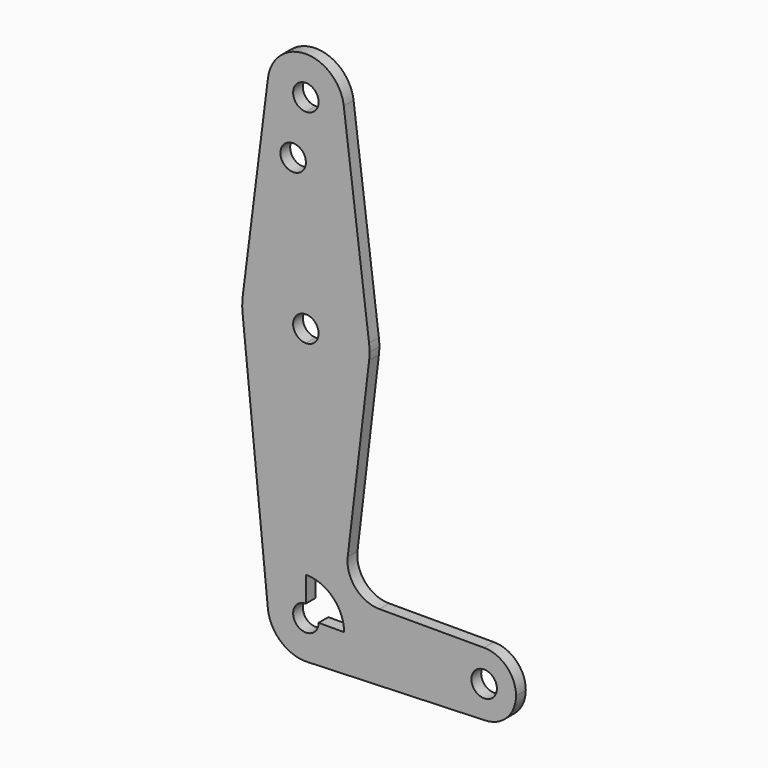
from build123d import *

# Parameters (mm, degrees)
F0_R     = 3.175
F1_DEPTH = 3.048


with BuildPart() as f1:
    # F0 (on Front) → F1 (new body)
    with BuildSketch(Plane.XZ):
        with BuildLine():
            ThreePointArc((3.175, 114.3), (-2.245064, 116.545064), (0, 111.125))
            ThreePointArc((0, 111.125), (2.245064, 112.054936), (3.175, 114.3))
        make_face()
        with BuildLine():
            ThreePointArc((0, 104.775), (6.735192, 107.564808), (9.525, 114.3))
            ThreePointArc((9.525, 114.3), (9.506305, 114.896483), (9.450293, 115.490625))
            ThreePointArc((9.450293, 115.490625), (0, 123.825), (-9.450293, 115.490625))
            ThreePointArc((-9.450293, 115.490625), (-7.14375, 107.999805), (0, 104.775))
        make_face()
        with BuildLine():
            ThreePointArc((3.175, 114.3), (2.245064, 112.054936), (0, 111.125))
            ThreePointArc((0, 111.125), (-2.245064, 116.545064), (3.175, 114.3))
        make_face(mode=Mode.SUBTRACT)
        with BuildLine():
            ThreePointArc((9.450293, 115.490625), (9.506305, 114.896483), (9.525, 114.3))
            ThreePointArc((9.525, 114.3), (6.735192, 107.564808), (0, 104.775))
            Line((0, 104.775), (0, 100.0252))
            Line((0, 100.0252), (0, 79.375))
            ThreePointArc((0, 79.375), (10.500326, 75.40625), (15.750488, 65.484375))
            Line((15.750488, 65.484375), (9.450293, 115.490625))
        make_face()
        with BuildLine():
            Line((0, 100.0252), (0, 104.775))
            ThreePointArc((0, 104.775), (-7.14375, 107.999805), (-9.450293, 115.490625))
            Line((-9.450293, 115.490625), (-15.750488, 65.484375))
            ThreePointArc((-15.750488, 65.484375), (-10.500326, 75.40625), (0, 79.375))
            Line((0, 79.375), (0, 100.0252))
        make_face()
        with Locations((-3.175, 100.0252)):
            Circle(F0_R, mode=Mode.SUBTRACT)
        with BuildLine():
            ThreePointArc((15.875, 63.5), (15.843841, 64.494139), (15.750488, 65.484375))
            ThreePointArc((15.750488, 65.484375), (10.500326, 75.40625), (0, 79.375))
            Line((0, 79.375), (0, 66.675))
            ThreePointArc((0, 66.675), (2.245064, 65.745064), (3.175, 63.5))
            ThreePointArc((3.175, 63.5), (2.245064, 61.254936), (0, 60.325))
            Line((0, 60.325), (0, 47.625))
            ThreePointArc((0, 47.625), (10.540869, 51.629629), (15.763657, 61.623099))
            ThreePointArc((15.763657, 61.623099), (15.84714, 62.5599), (15.875, 63.5))
        make_face()
        with BuildLine():
            ThreePointArc((0, 79.375), (-10.500326, 75.40625), (-15.750488, 65.484375))
            ThreePointArc((-15.750488, 65.484375), (-15.873744, 63.699705), (-15.795426, 61.9125))
            ThreePointArc((-15.795426, 61.9125), (-10.649274, 51.726785), (0, 47.625))
            Line((0, 47.625), (0, 60.325))
            ThreePointArc((0, 60.325), (-3.175, 63.5), (0, 66.675))
            Line((0, 66.675), (0, 79.375))
        make_face()
        with BuildLine():
            ThreePointArc((0, 47.625), (-10.649274, 51.726785), (-15.795426, 61.9125))
            Line((-15.795426, 61.9125), (-9.477255, -0.9525))
            ThreePointArc((-9.477255, -0.9525), (-7.063929, 6.389564), (0, 9.525))
            Line((0, 9.525), (0, 47.625))
        make_face()
        with BuildLine():
            Line((10.430082, 16.827652), (15.763657, 61.623099))
            ThreePointArc((15.763657, 61.623099), (10.540869, 51.629629), (0, 47.625))
            Line((0, 47.625), (0, 9.525))
            ThreePointArc((0, 9.525), (6.735192, 6.735192), (9.525, 0))
            Line((9.525, 0), (36.5125, 0))
            ThreePointArc((36.5125, 0), (38.83734, 5.61266), (44.45, 7.9375))
            Line((44.45, 7.9375), (18.324522, 7.9375))
            ThreePointArc((18.324522, 7.9375), (12.37984, 10.608833), (10.430082, 16.827652))
        make_face()
        with BuildLine():
            ThreePointArc((0, 9.525), (-7.063929, 6.389564), (-9.477255, -0.9525))
            ThreePointArc((-9.477255, -0.9525), (-6.262383, -7.17692), (0.340179, -9.518923))
            ThreePointArc((0.340179, -9.518923), (6.854408, -6.613827), (9.525, 0))
            Line((9.525, 0), (3.175, 0))
            ThreePointArc((3.175, 0), (-2.245064, -2.245064), (0, 3.175))
            Line((0, 3.175), (0, 9.525))
        make_face()
        with BuildLine():
            ThreePointArc((9.525, 0), (6.854408, -6.613827), (0.340179, -9.518923))
            Line((0.340179, -9.518923), (44.733482, -7.932436))
            ThreePointArc((44.733482, -7.932436), (38.938477, -5.712007), (36.5125, 0))
            Line((36.5125, 0), (9.525, 0))
        make_face()
        with BuildLine():
            ThreePointArc((47.625, 0), (44.45, 3.175), (41.275, 0))
            ThreePointArc((41.275, 0), (44.45, -3.175), (47.625, 0))
        make_face()
        with BuildLine():
            ThreePointArc((36.5125, 0), (38.938477, -5.712007), (44.733482, -7.932436))
            ThreePointArc((44.733482, -7.932436), (50.162007, -5.511523), (52.3875, 0))
            ThreePointArc((52.3875, 0), (50.06266, 5.61266), (44.45, 7.9375))
            ThreePointArc((44.45, 7.9375), (38.83734, 5.61266), (36.5125, 0))
        make_face()
        with BuildLine():
            ThreePointArc((47.625, 0), (44.45, -3.175), (41.275, 0))
            ThreePointArc((41.275, 0), (44.45, 3.175), (47.625, 0))
        make_face(mode=Mode.SUBTRACT)
    extrude(amount=F1_DEPTH)


solid = f1.part
